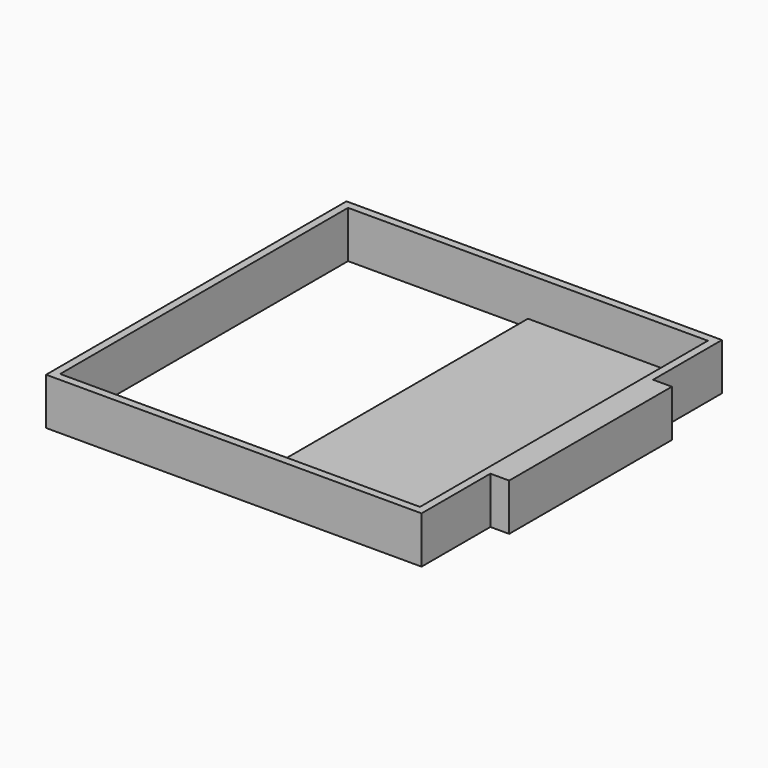
from build123d import *

# Parameters (mm, degrees)
F0_W     = 146.05
F0_H     = 3.175
F1_DEPTH = 19.05
F2_W     = 73.025
F2_H     = 146.05
F3_DEPTH = 3.175
F4_W     = 7.62
F4_H     = 82.55
F5_DEPTH = 19.05


with BuildPart() as f1:
    # F0 (on Top) → F1 (new body)
    with BuildSketch(Plane.XY):
        Polygon((-73.025, 73.025), (-73.025, 76.2), (-76.2, 76.2), (-76.2, -76.2), (-73.025, -76.2), (-73.025, -73.025), align=None)
        with Locations((0, 74.6125)):
            Rectangle(F0_W, F0_H)
        Polygon((76.2, -76.2), (76.2, 76.2), (73.025, 76.2), (73.025, 73.025), (73.025, -73.025), (73.025, -76.2), align=None)
        with Locations((0, -74.6125)):
            Rectangle(F0_W, F0_H)
    extrude(amount=F1_DEPTH)

    # F2 (on Top) → F3 (join)
    with BuildSketch(Plane.XY):
        with Locations((36.5125, 0)):
            Rectangle(F2_W, F2_H)
    extrude(amount=F3_DEPTH)

    # F4 (on Top) → F5 (join)
    with BuildSketch(Plane.XY):
        with Locations((80.01, 0)):
            Rectangle(F4_W, F4_H)
    extrude(amount=F5_DEPTH)


solid = f1.part
